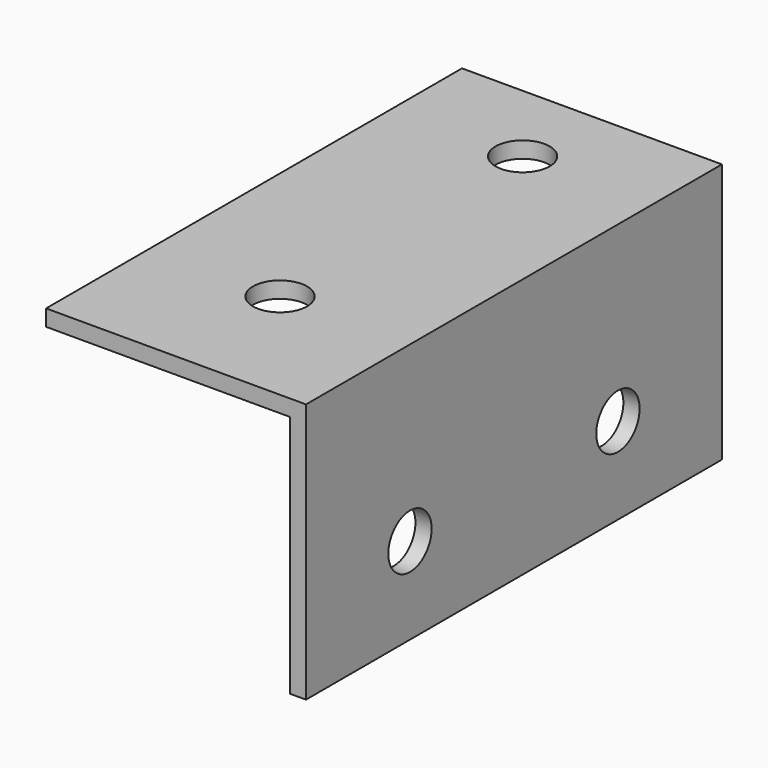
from build123d import *

# Parameters (mm, degrees)
F0_W     = 152.4
F0_H     = 76.2
F1_DEPTH = 76.2
F2_W     = 71.4375
F2_H     = 71.4375
F3_DEPTH = 152.4
F4_R     = 7.9375
F5_DEPTH = 4.7625
F6_R     = 7.9375
F7_DEPTH = 4.7625


with BuildPart() as f1:
    # F0 (on Right) → F1 (new body)
    with BuildSketch(Plane.YZ):
        with Locations((0, 7.474488)):
            Rectangle(F0_W, F0_H)
    extrude(amount=-F1_DEPTH)

    # F2 (on face) → F3 (cut)
    with BuildSketch(Plane(origin=(0, 76.2, 0), x_dir=(-1, 0, 0), z_dir=(0, 1, 0))):
        with Locations((40.48125, 5.093238)):
            Rectangle(F2_W, F2_H)
    extrude(amount=-F3_DEPTH, mode=Mode.SUBTRACT)

    # F4 (on face) → F5 (cut, through all)
    with BuildSketch(Plane.YZ):
        with Locations((-38.1, -5.225512)):
            Circle(F4_R)
        with Locations((38.1, -5.225512)):
            Circle(F4_R)
    extrude(amount=-F5_DEPTH, mode=Mode.SUBTRACT)

    # F6 (on face) → F7 (cut, through all)
    with BuildSketch(Plane.XY.offset(45.574488)):
        with Locations((-38.1, 50.8)):
            Circle(F6_R)
        with Locations((-38.1, -38.1)):
            Circle(F6_R)
    extrude(amount=-F7_DEPTH, mode=Mode.SUBTRACT)


solid = f1.part
